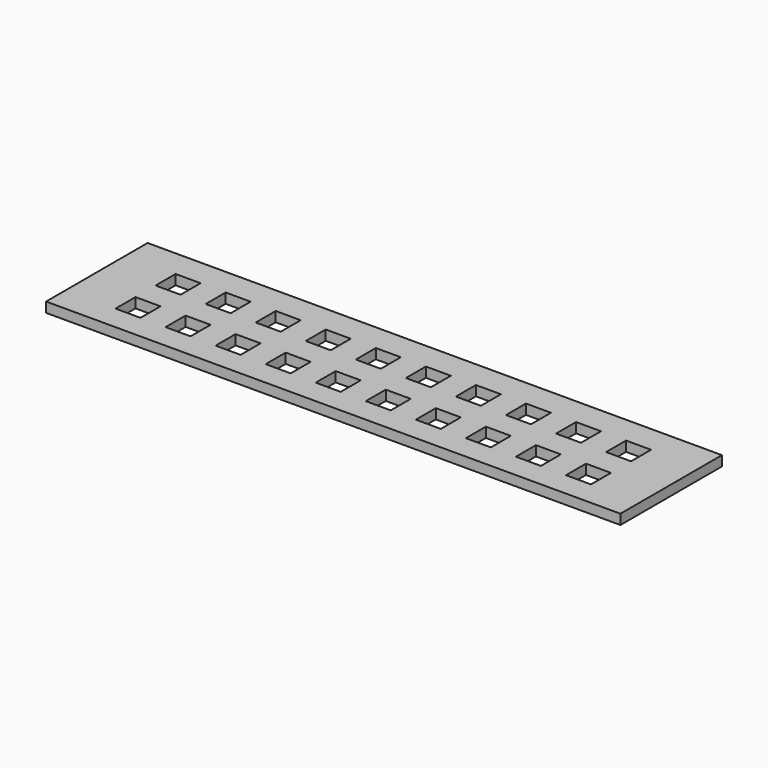
from build123d import *

# Parameters (mm, degrees)
BOX_W               = 115
BOX_H               = 25.4
BOX_DEPTH           = 1
SKETCH_W            = 5
SKETCH_H            = 5
POCKET_DEPTH        = 0.001
POCKET_FACE24_W     = 5
POCKET_FACE24_H     = 5
POCKET001_DEPTH     = 5
POCKET001_FACE12_W  = 5
POCKET001_FACE12_H  = 5
POCKET002_DEPTH     = 5
POCKET002_FACE17_W  = 5
POCKET002_FACE17_H  = 5
POCKET003_DEPTH     = 1.001
POCKET003_FACE20_W  = 5
POCKET003_FACE20_H  = 5
POCKET004_DEPTH     = 5
POCKET004_FACE28_W  = 5
POCKET004_FACE28_H  = 5
POCKET005_DEPTH     = 5
POCKET005_FACE32_W  = 5
POCKET005_FACE32_H  = 5
POCKET006_DEPTH     = 5
POCKET006_FACE35_W  = 5
POCKET006_FACE35_H  = 5
POCKET007_DEPTH     = 5
POCKET007_FACE38_W  = 5
POCKET007_FACE38_H  = 5
POCKET008_DEPTH     = 5
POCKET008_FACE46_W  = 5
POCKET008_FACE46_H  = 5
POCKET009_DEPTH     = 5
POCKET009_FACE52_W  = 5
POCKET009_FACE52_H  = 5
POCKET010_DEPTH     = 5
POCKET010_FACE55_W  = 5
POCKET010_FACE55_H  = 5
POCKET011_DEPTH     = 5
POCKET011_FACE51_W  = 5
POCKET011_FACE51_H  = 5
POCKET012_DEPTH     = 5
POCKET012_FACE56_W  = 5
POCKET012_FACE56_H  = 5
POCKET013_DEPTH     = 5
POCKET013_FACE59_W  = 5
POCKET013_FACE59_H  = 5
POCKET014_DEPTH     = 5
POCKET014_FACE63_W  = 5
POCKET014_FACE63_H  = 5
POCKET015_DEPTH     = 5
POCKET015_FACE68_W  = 5
POCKET015_FACE68_H  = 5
POCKET016_DEPTH     = 5
POCKET016_FACE72_W  = 5
POCKET016_FACE72_H  = 5
POCKET017_DEPTH     = 5
POCKET017_FACE76_W  = 5
POCKET017_FACE76_H  = 5
POCKET018_DEPTH     = 5
POCKET018_FACE80_W  = 5
POCKET018_FACE80_H  = 5
POCKET019_DEPTH     = 5
POCKET019_FACE83_W  = 5
POCKET019_FACE83_H  = 5
POCKET020_DEPTH     = 5
POCKET020_FACE5_W   = 25.4
POCKET020_FACE5_H   = 115
POCKET020_FACE5_W_2 = 5
POCKET020_FACE5_H_2 = 5
PAD_DEPTH           = 1


with BuildPart() as part:
    # Box → Box (new body)
    with BuildSketch(Plane.XY):
        with Locations((57.5, 12.7)):
            Rectangle(BOX_W, BOX_H)
    extrude(amount=BOX_DEPTH)

    # Sketch → Pocket (cut, through all)
    with BuildSketch(Plane.XY):
        with Locations((12.481102, 17.438787)):
            Rectangle(SKETCH_W, SKETCH_H)
        with Locations((22.506832, 17.433556)):
            Rectangle(SKETCH_W, SKETCH_H)
        with Locations((32.532562, 17.428325)):
            Rectangle(SKETCH_W, SKETCH_H)
        with Locations((42.558292, 17.423094)):
            Rectangle(SKETCH_W, SKETCH_H)
        with Locations((52.584022, 17.417863)):
            Rectangle(SKETCH_W, SKETCH_H)
        with Locations((62.609752, 17.412632)):
            Rectangle(SKETCH_W, SKETCH_H)
        with Locations((72.635482, 17.407401)):
            Rectangle(SKETCH_W, SKETCH_H)
        with Locations((82.661212, 17.40217)):
            Rectangle(SKETCH_W, SKETCH_H)
        with Locations((92.686942, 17.396939)):
            Rectangle(SKETCH_W, SKETCH_H)
        with Locations((102.712672, 17.391708)):
            Rectangle(SKETCH_W, SKETCH_H)
        with Locations((12.475871, 7.413057)):
            Rectangle(SKETCH_W, SKETCH_H)
        with Locations((22.501601, 7.407826)):
            Rectangle(SKETCH_W, SKETCH_H)
        with Locations((32.527331, 7.402595)):
            Rectangle(SKETCH_W, SKETCH_H)
        with Locations((42.553061, 7.397364)):
            Rectangle(SKETCH_W, SKETCH_H)
        with Locations((52.578791, 7.392133)):
            Rectangle(SKETCH_W, SKETCH_H)
        with Locations((62.604521, 7.386902)):
            Rectangle(SKETCH_W, SKETCH_H)
        with Locations((72.630251, 7.381671)):
            Rectangle(SKETCH_W, SKETCH_H)
        with Locations((82.655981, 7.37644)):
            Rectangle(SKETCH_W, SKETCH_H)
        with Locations((92.681711, 7.371209)):
            Rectangle(SKETCH_W, SKETCH_H)
        with Locations((102.707441, 7.365978)):
            Rectangle(SKETCH_W, SKETCH_H)
    extrude(amount=-POCKET_DEPTH, mode=Mode.SUBTRACT)

    # Pocket Face24 → Pocket001 (cut)
    with BuildSketch(Plane(origin=(102.712672, 17.391708, 0), x_dir=(0, -1, 0), z_dir=(0, 0, -1))):
        Rectangle(POCKET_FACE24_W, POCKET_FACE24_H)
    extrude(amount=-POCKET001_DEPTH, mode=Mode.SUBTRACT)

    # Pocket001 Face12 → Pocket002 (cut)
    with BuildSketch(Plane(origin=(92.686942, 17.396939, 0), x_dir=(0, -1, 0), z_dir=(0, 0, -1))):
        Rectangle(POCKET001_FACE12_W, POCKET001_FACE12_H)
    extrude(amount=-POCKET002_DEPTH, mode=Mode.SUBTRACT)

    # Pocket002 Face17 → Pocket003 (cut, through all)
    with BuildSketch(Plane(origin=(82.661212, 17.40217, 0), x_dir=(0, -1, 0), z_dir=(0, 0, -1))):
        Rectangle(POCKET002_FACE17_W, POCKET002_FACE17_H)
    extrude(amount=-POCKET003_DEPTH, mode=Mode.SUBTRACT)

    # Pocket003 Face20 → Pocket004 (cut)
    with BuildSketch(Plane(origin=(72.635482, 17.407401, 0), x_dir=(0, -1, 0), z_dir=(0, 0, -1))):
        Rectangle(POCKET003_FACE20_W, POCKET003_FACE20_H)
    extrude(amount=-POCKET004_DEPTH, mode=Mode.SUBTRACT)

    # Pocket004 Face28 → Pocket005 (cut)
    with BuildSketch(Plane(origin=(62.609752, 17.412632, 0), x_dir=(0, -1, 0), z_dir=(0, 0, -1))):
        Rectangle(POCKET004_FACE28_W, POCKET004_FACE28_H)
    extrude(amount=-POCKET005_DEPTH, mode=Mode.SUBTRACT)

    # Pocket005 Face32 → Pocket006 (cut)
    with BuildSketch(Plane(origin=(52.584022, 17.417863, 0), x_dir=(0, -1, 0), z_dir=(0, 0, -1))):
        Rectangle(POCKET005_FACE32_W, POCKET005_FACE32_H)
    extrude(amount=-POCKET006_DEPTH, mode=Mode.SUBTRACT)

    # Pocket006 Face35 → Pocket007 (cut)
    with BuildSketch(Plane(origin=(42.558292, 17.423094, 0), x_dir=(0, -1, 0), z_dir=(0, 0, -1))):
        Rectangle(POCKET006_FACE35_W, POCKET006_FACE35_H)
    extrude(amount=-POCKET007_DEPTH, mode=Mode.SUBTRACT)

    # Pocket007 Face38 → Pocket008 (cut)
    with BuildSketch(Plane(origin=(32.532562, 17.428325, 0), x_dir=(0, -1, 0), z_dir=(0, 0, -1))):
        Rectangle(POCKET007_FACE38_W, POCKET007_FACE38_H)
    extrude(amount=-POCKET008_DEPTH, mode=Mode.SUBTRACT)

    # Pocket008 Face46 → Pocket009 (cut)
    with BuildSketch(Plane(origin=(22.506832, 17.433556, 0), x_dir=(0, -1, 0), z_dir=(0, 0, -1))):
        Rectangle(POCKET008_FACE46_W, POCKET008_FACE46_H)
    extrude(amount=-POCKET009_DEPTH, mode=Mode.SUBTRACT)

    # Pocket009 Face52 → Pocket010 (cut)
    with BuildSketch(Plane(origin=(12.481102, 17.438787, 0), x_dir=(0, -1, 0), z_dir=(0, 0, -1))):
        Rectangle(POCKET009_FACE52_W, POCKET009_FACE52_H)
    extrude(amount=-POCKET010_DEPTH, mode=Mode.SUBTRACT)

    # Pocket010 Face55 → Pocket011 (cut)
    with BuildSketch(Plane(origin=(102.707441, 7.365978, 0), x_dir=(0, -1, 0), z_dir=(0, 0, -1))):
        Rectangle(POCKET010_FACE55_W, POCKET010_FACE55_H)
    extrude(amount=-POCKET011_DEPTH, mode=Mode.SUBTRACT)

    # Pocket011 Face51 → Pocket012 (cut)
    with BuildSketch(Plane(origin=(92.681711, 7.371209, 0), x_dir=(0, -1, 0), z_dir=(0, 0, -1))):
        Rectangle(POCKET011_FACE51_W, POCKET011_FACE51_H)
    extrude(amount=-POCKET012_DEPTH, mode=Mode.SUBTRACT)

    # Pocket012 Face56 → Pocket013 (cut)
    with BuildSketch(Plane(origin=(82.655981, 7.37644, 0), x_dir=(0, -1, 0), z_dir=(0, 0, -1))):
        Rectangle(POCKET012_FACE56_W, POCKET012_FACE56_H)
    extrude(amount=-POCKET013_DEPTH, mode=Mode.SUBTRACT)

    # Pocket013 Face59 → Pocket014 (cut)
    with BuildSketch(Plane(origin=(72.630251, 7.381671, 0), x_dir=(0, -1, 0), z_dir=(0, 0, -1))):
        Rectangle(POCKET013_FACE59_W, POCKET013_FACE59_H)
    extrude(amount=-POCKET014_DEPTH, mode=Mode.SUBTRACT)

    # Pocket014 Face63 → Pocket015 (cut)
    with BuildSketch(Plane(origin=(62.604521, 7.386902, 0), x_dir=(0, -1, 0), z_dir=(0, 0, -1))):
        Rectangle(POCKET014_FACE63_W, POCKET014_FACE63_H)
    extrude(amount=-POCKET015_DEPTH, mode=Mode.SUBTRACT)

    # Pocket015 Face68 → Pocket016 (cut)
    with BuildSketch(Plane(origin=(42.553061, 7.397364, 0), x_dir=(0, -1, 0), z_dir=(0, 0, -1))):
        Rectangle(POCKET015_FACE68_W, POCKET015_FACE68_H)
    extrude(amount=-POCKET016_DEPTH, mode=Mode.SUBTRACT)

    # Pocket016 Face72 → Pocket017 (cut)
    with BuildSketch(Plane(origin=(32.527331, 7.402595, 0), x_dir=(0, -1, 0), z_dir=(0, 0, -1))):
        Rectangle(POCKET016_FACE72_W, POCKET016_FACE72_H)
    extrude(amount=-POCKET017_DEPTH, mode=Mode.SUBTRACT)

    # Pocket017 Face76 → Pocket018 (cut)
    with BuildSketch(Plane(origin=(22.501601, 7.407826, 0), x_dir=(0, -1, 0), z_dir=(0, 0, -1))):
        Rectangle(POCKET017_FACE76_W, POCKET017_FACE76_H)
    extrude(amount=-POCKET018_DEPTH, mode=Mode.SUBTRACT)

    # Pocket018 Face80 → Pocket019 (cut)
    with BuildSketch(Plane(origin=(12.475871, 7.413057, 0), x_dir=(0, -1, 0), z_dir=(0, 0, -1))):
        Rectangle(POCKET018_FACE80_W, POCKET018_FACE80_H)
    extrude(amount=-POCKET019_DEPTH, mode=Mode.SUBTRACT)

    # Pocket019 Face83 → Pocket020 (cut)
    with BuildSketch(Plane(origin=(52.578791, 7.392133, 0), x_dir=(0, -1, 0), z_dir=(0, 0, -1))):
        Rectangle(POCKET019_FACE83_W, POCKET019_FACE83_H)
    extrude(amount=-POCKET020_DEPTH, mode=Mode.SUBTRACT)

    # Pocket020 Face5 → Pad (add)
    with BuildSketch(Plane(origin=(57.48053, 12.761466, 0), x_dir=(0, -1, 0), z_dir=(0, 0, -1))):
        with Locations((0.061466, -0.01947)):
            Rectangle(POCKET020_FACE5_W, POCKET020_FACE5_H)
        with Locations((5.390257, -35.201181)):
            Rectangle(POCKET020_FACE5_W_2, POCKET020_FACE5_H_2, mode=Mode.SUBTRACT)
        with Locations((-4.635473, -35.206412)):
            Rectangle(POCKET020_FACE5_W_2, POCKET020_FACE5_H_2, mode=Mode.SUBTRACT)
        with Locations((-4.645935, -15.154952)):
            Rectangle(POCKET020_FACE5_W_2, POCKET020_FACE5_H_2, mode=Mode.SUBTRACT)
        with Locations((-4.640704, -25.180682)):
            Rectangle(POCKET020_FACE5_W_2, POCKET020_FACE5_H_2, mode=Mode.SUBTRACT)
        with Locations((5.379795, -15.149721)):
            Rectangle(POCKET020_FACE5_W_2, POCKET020_FACE5_H_2, mode=Mode.SUBTRACT)
        with Locations((5.385026, -25.175451)):
            Rectangle(POCKET020_FACE5_W_2, POCKET020_FACE5_H_2, mode=Mode.SUBTRACT)
        with Locations((-4.666859, 24.947968)):
            Rectangle(POCKET020_FACE5_W_2, POCKET020_FACE5_H_2, mode=Mode.SUBTRACT)
        with Locations((-4.661628, 14.922238)):
            Rectangle(POCKET020_FACE5_W_2, POCKET020_FACE5_H_2, mode=Mode.SUBTRACT)
        with Locations((-4.651166, -5.129222)):
            Rectangle(POCKET020_FACE5_W_2, POCKET020_FACE5_H_2, mode=Mode.SUBTRACT)
        with Locations((-4.656397, 4.896508)):
            Rectangle(POCKET020_FACE5_W_2, POCKET020_FACE5_H_2, mode=Mode.SUBTRACT)
        with Locations((5.374564, -5.123991)):
            Rectangle(POCKET020_FACE5_W_2, POCKET020_FACE5_H_2, mode=Mode.SUBTRACT)
        with Locations((5.369333, 4.901739)):
            Rectangle(POCKET020_FACE5_W_2, POCKET020_FACE5_H_2, mode=Mode.SUBTRACT)
        with Locations((5.364102, 14.927469)):
            Rectangle(POCKET020_FACE5_W_2, POCKET020_FACE5_H_2, mode=Mode.SUBTRACT)
        with Locations((5.358871, 24.953199)):
            Rectangle(POCKET020_FACE5_W_2, POCKET020_FACE5_H_2, mode=Mode.SUBTRACT)
        with Locations((-4.67209, 34.973698)):
            Rectangle(POCKET020_FACE5_W_2, POCKET020_FACE5_H_2, mode=Mode.SUBTRACT)
        with Locations((5.35364, 34.978929)):
            Rectangle(POCKET020_FACE5_W_2, POCKET020_FACE5_H_2, mode=Mode.SUBTRACT)
        with Locations((5.395488, -45.226911)):
            Rectangle(POCKET020_FACE5_W_2, POCKET020_FACE5_H_2, mode=Mode.SUBTRACT)
        with Locations((-4.630242, -45.232142)):
            Rectangle(POCKET020_FACE5_W_2, POCKET020_FACE5_H_2, mode=Mode.SUBTRACT)
        with Locations((-4.677321, 44.999428)):
            Rectangle(POCKET020_FACE5_W_2, POCKET020_FACE5_H_2, mode=Mode.SUBTRACT)
        with Locations((5.348409, 45.004659)):
            Rectangle(POCKET020_FACE5_W_2, POCKET020_FACE5_H_2, mode=Mode.SUBTRACT)
    extrude(amount=PAD_DEPTH)


solid = part.part
